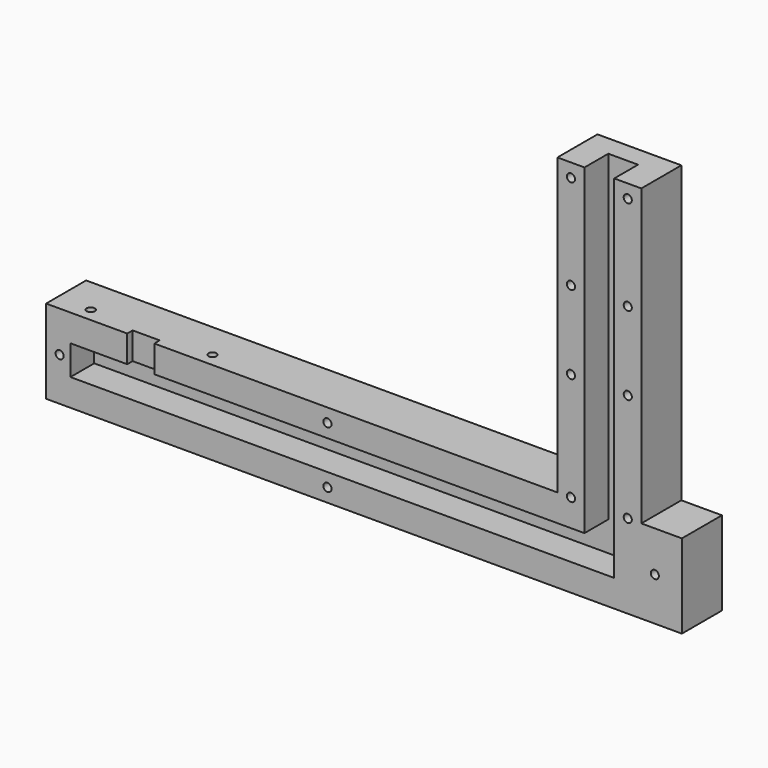
from build123d import *

# Parameters (mm, degrees)
F1_DEPTH  = 37
F2_W      = 22
F2_H      = 22
F3_DEPTH  = 260
F4_W      = 37
F4_H      = 62
F5_DEPTH  = 30
F6_W      = 22
F6_H      = 22
F7_DEPTH  = 380
F8_W      = 20
F8_H      = 5
F9_DEPTH  = 25
F10_R     = 3
F11_DEPTH = 37.001
F13_R     = 3
F14_DEPTH = 17


with BuildPart() as f1:
    # F0 (on Front) → F1 (new body)
    with BuildSketch(Plane.XZ):
        Polygon((0, -280), (0, 0), (-62, 0), (-62, -218), (-440, -218), (-440, -280), align=None)
    extrude(amount=F1_DEPTH)

    # F2 (on face) → F3 (cut)
    with BuildSketch(Plane.XY):
        with Locations((-31, -26)):
            Rectangle(F2_W, F2_H)
    extrude(amount=-F3_DEPTH, mode=Mode.SUBTRACT)

    # F4 (on face) → F5 (join)
    with BuildSketch(Plane.YZ):
        with Locations((-18.5, -249)):
            Rectangle(F4_W, F4_H)
    extrude(amount=F5_DEPTH)

    # F6 (on face) → F7 (cut)
    with BuildSketch(Plane.YZ.offset(-42)):
        with Locations((-26, -249)):
            Rectangle(F6_W, F6_H)
    extrude(amount=-F7_DEPTH, mode=Mode.SUBTRACT)

    # F8 (on face) → F9 (cut)
    with BuildSketch(Plane.XY.offset(-218)):
        with Locations((-370, -34.5)):
            Rectangle(F8_W, F8_H)
    extrude(amount=-F9_DEPTH, mode=Mode.SUBTRACT)

    # F10 (on face) → F11 (cut, through all)
    with BuildSketch(Plane.XZ.offset(37)):
        with Locations((-52, -10)):
            Circle(F10_R)
        with Locations((-10, -10)):
            Circle(F10_R)
        with Locations((-52, -80)):
            Circle(F10_R)
        with Locations((-10, -80)):
            Circle(F10_R)
        with Locations((-52, -138)):
            Circle(F10_R)
        with Locations((-10, -138)):
            Circle(F10_R)
        with Locations((-52, -218)):
            Circle(F10_R)
        with Locations((-10, -218)):
            Circle(F10_R)
        with Locations((10, -248)):
            Circle(F10_R)
        with Locations((-232, -270)):
            Circle(F10_R)
        with Locations((-232, -228)):
            Circle(F10_R)
        with Locations((-430, -248)):
            Circle(F10_R)
    extrude(amount=-F11_DEPTH, mode=Mode.SUBTRACT)

    # F13 (on face) → F14 (cut)
    with BuildSketch(Plane.XY.offset(-218)):
        with Locations((-415, -27)):
            Circle(F13_R)
        with Locations((-325, -27)):
            Circle(F13_R)
    extrude(amount=-F14_DEPTH, mode=Mode.SUBTRACT)


solid = f1.part
